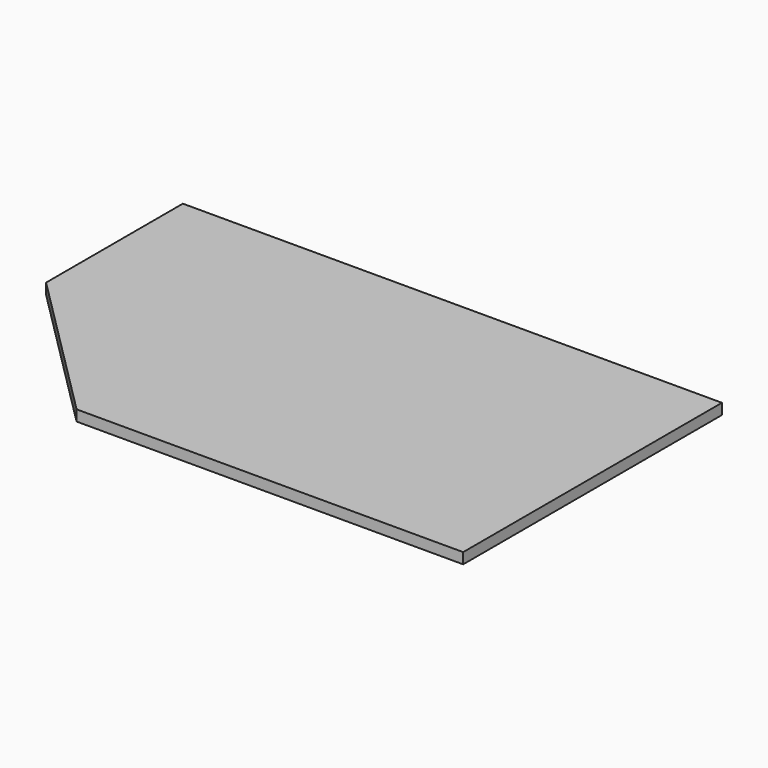
from build123d import *

# Parameters (mm, degrees)
EXTRUDE_DEPTH = 20


with BuildPart() as part:
    # Sketch → Extrude (new body)
    with BuildSketch(Plane.XY):
        Polygon((-500, 300), (500, 300), (500, -300), (-217.157288, -300), (-500, -17.157288), align=None)
    extrude(amount=EXTRUDE_DEPTH)


solid = part.part
